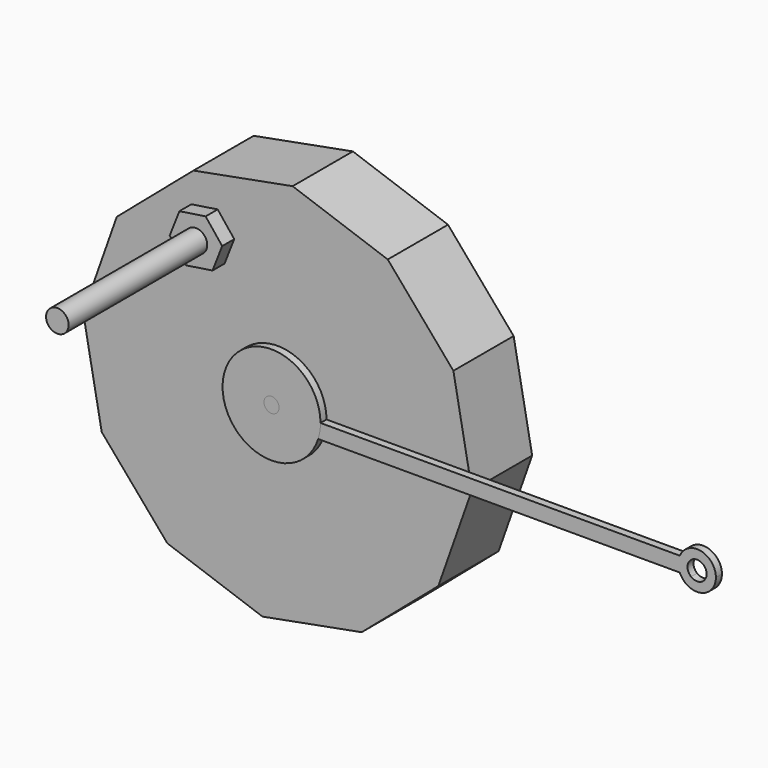
from build123d import *

# Parameters (mm, degrees)
F1_DEPTH         = 10
F3_DEPTH         = 1
F4_DEPTH         = 1
F6_D             = 1
F6_DEPTH         = 3
F6_CSINK_D       = 2
F6_CSINK_ANGLE   = 90
F6_TIP           = 0.3004303095
F6_2_D           = 1
F6_2_DEPTH       = 3
F6_2_CSINK_D     = 2
F6_2_CSINK_ANGLE = 90
F6_2_TIP         = 0.3004303095
F7_R             = 1
F8_DEPTH         = 11
F10_R            = 1.5
F11_DEPTH        = 25
F12_DEPTH        = 2


with BuildPart() as f1:
    # F0 (on Front) → F1 (new body)
    with BuildSketch(Plane.XZ):
        Polygon((-11.1702065635, 23.347365299), (-21.347365299, 14.6343081786), (-25.8045147421, 2), (-23.347365299, -11.1702065635), (-14.6343081786, -21.347365299), (-2, -25.8045147421), (11.1702065635, -23.347365299), (21.347365299, -14.6343081786), (25.8045147421, -2), (23.347365299, 11.1702065635), (14.6343081786, 21.347365299), (2, 25.8045147421), align=None)
    extrude(amount=F1_DEPTH)

    # F6
    with Locations(Plane.XZ.offset(11)):
        with Locations((0, 0)):
            CounterSinkHole(F6_D / 2, F6_CSINK_D / 2, depth=F6_DEPTH, counter_sink_angle=F6_CSINK_ANGLE)
            with Locations((0, 0, -(F6_DEPTH + F6_TIP / 2))):  # 118° drill point
                Cone(0, F6_D / 2, F6_TIP, mode=Mode.SUBTRACT)


with BuildPart() as f3:
    # F2 (on face) → F3 (new body)
    with BuildSketch(Plane.XZ.offset(10)):
        with BuildLine():
            ThreePointArc((6.1940788733, -1.9706310946), (6.423064404, -0.9971176769), (6.5, 0))
            ThreePointArc((6.5, 0), (-6.423064404, 0.9971176769), (6.1940788733, -1.9706310946))
        make_face()
    extrude(amount=F3_DEPTH)

    # F6#2
    with Locations(Plane.XZ.offset(11)):
        with Locations((0, 0)):
            CounterSinkHole(F6_2_D / 2, F6_2_CSINK_D / 2, depth=F6_2_DEPTH, counter_sink_angle=F6_2_CSINK_ANGLE)
            with Locations((0, 0, -(F6_2_DEPTH + F6_2_TIP / 2))):  # 118° drill point
                Cone(0, F6_2_D / 2, F6_2_TIP, mode=Mode.SUBTRACT)


with BuildPart() as f4:
    # F2 (on face) → F4 (new body)
    with BuildSketch(Plane.XZ.offset(10)):
        with BuildLine():
            Line((25.4313771712, 0), (6.5, 0))
            ThreePointArc((6.5, 0), (6.423064404, -0.9971176769), (6.1940788733, -1.9706310946))
            Line((6.1940788733, -1.9706310946), (25.7990354211, -1.9706310946))
            Line((25.7990354211, -1.9706310946), (25.4313771712, 0))
        make_face()
        with BuildLine():
            Line((54.2023591942, 0), (25.4313771712, 0))
            Line((25.4313771712, 0), (25.7990354211, -1.9706310946))
            Line((25.7990354211, -1.9706310946), (54.2023591942, -1.9706310946))
            ThreePointArc((54.2023591942, -1.9706310946), (54, -0.9853155473), (54.2023591942, 0))
        make_face()
        with BuildLine():
            ThreePointArc((59, -0.9853155473), (57.0029403472, 1.4635721609), (54.2023591942, 0))
            Line((54.2023591942, 0), (55.7021531952, 0))
            ThreePointArc((55.7021531952, 0), (57.0458332799, 0.1590062091), (57.767835262, -0.9853155473))
            ThreePointArc((57.767835262, -0.9853155473), (57.0458332799, -2.1296373037), (55.7021531952, -1.9706310946))
            Line((55.7021531952, -1.9706310946), (54.2023591942, -1.9706310946))
            ThreePointArc((54.2023591942, -1.9706310946), (57.0029403472, -3.4342032554), (59, -0.9853155473))
        make_face()
        with BuildLine():
            Line((55.7021531952, 0), (54.2023591942, 0))
            ThreePointArc((54.2023591942, 0), (54, -0.9853155473), (54.2023591942, -1.9706310946))
            Line((54.2023591942, -1.9706310946), (55.7021531952, -1.9706310946))
            ThreePointArc((55.7021531952, -1.9706310946), (55.232164738, -0.9853155473), (55.7021531952, 0))
        make_face()
    extrude(amount=F4_DEPTH)


with BuildPart() as f8:
    # F7 (on face) → F8 (new body, through all)
    with BuildSketch(Plane.XZ.offset(11)):
        Circle(F7_R)
    extrude(amount=-F8_DEPTH)

    # F9: cut F1, F3
    add(f1.part, mode=Mode.SUBTRACT)
    add(f3.part, mode=Mode.SUBTRACT)


with BuildPart() as f11:
    # F10 (on face) → F11 (new body)
    with BuildSketch(Plane.XZ.offset(10)):
        with Locations((-9.2354677618, 16.5719036013)):
            Circle(F10_R)
    extrude(amount=F11_DEPTH)


with BuildPart() as f12:
    # F10 (on face) → F12 (new body)
    with BuildSketch(Plane.XZ.offset(10)):
        Polygon((-7.0366399973, 13.8169999636), (-5.7502373443, 17.098692485), (-7.9490651088, 19.8535961227), (-11.4342955262, 19.326807239), (-12.7206981792, 16.0451147176), (-10.5218704147, 13.2902110799), align=None)
        with Locations((-9.2354677618, 16.5719036013)):
            Circle(F10_R, mode=Mode.SUBTRACT)
    extrude(amount=F12_DEPTH)


solid = Compound([f1.part, f3.part, f4.part, f8.part, f11.part, f12.part])
